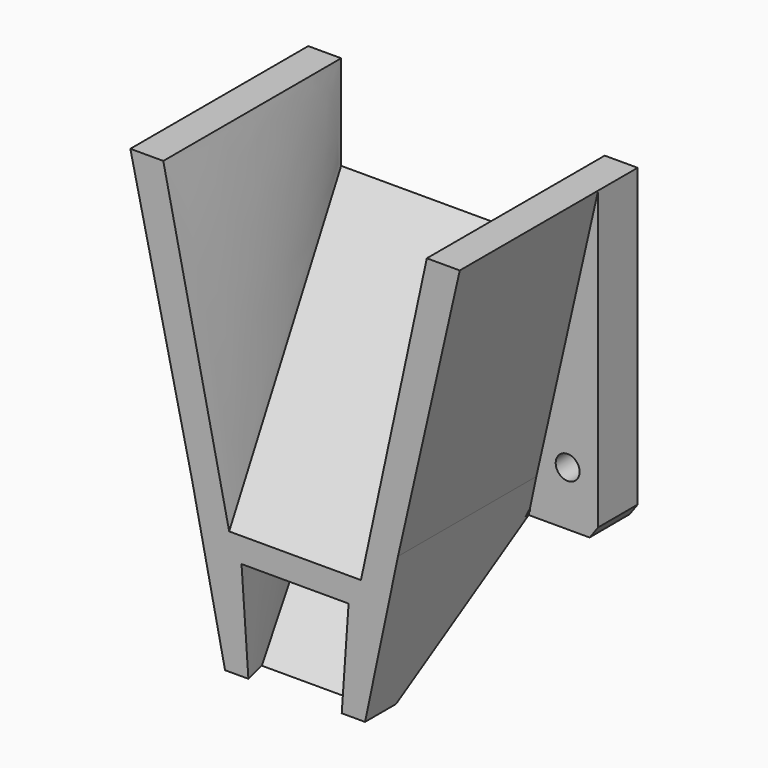
from build123d import *

# Parameters (mm, degrees)
F0_R          = 1.45
F1_DEPTH      = 27
F3_START      = 6
F3_DEPTH      = 23
F6_W          = 32
F6_H          = 11.5
F9_DEPTH      = 25
F9_DEPTH_BACK = 25
F6_W_2        = 27
F6_H_2        = 18


with BuildPart() as f1:
    # F0 (on Front) → F1 (new body)
    with BuildSketch(Plane.XZ):
        Polygon((-8.5, -26), (8.5, -26), (20, -10), (20, 26), (-20, 26), (-20, -10), align=None)
        with Locations((-16.3, -4.8)):
            Circle(F0_R, mode=Mode.SUBTRACT)
        with Locations((16.3, -4.8)):
            Circle(F0_R, mode=Mode.SUBTRACT)
    extrude(amount=F1_DEPTH)

    # F2 (on Front) → F3 (cut)
    with BuildSketch(Plane.XZ.offset(F3_START)):
        Polygon((26.5, -25), (26.499954751, 0.0001809961), (20, 26), (12.5, -7), (8.5, -26), align=None)
        Polygon((-8.5, -26), (-12.5, -7), (-20, 26), (-26.499954751, 0.0001809961), (-26.5, -25), align=None)
    extrude(amount=F3_DEPTH, mode=Mode.SUBTRACT)

    # F6 (on Front) → F7 section 0
    with BuildSketch(Plane.XZ):
        with Locations((0, 20.25)):
            Rectangle(F6_W, F6_H)
    # F5 (on offset) → F7 section 1
    with BuildSketch(Plane.XZ.offset(27)):
        Polygon((8, -11), (16, 26), (-16, 26), (-8, -11), align=None)
    loft(mode=Mode.SUBTRACT)

    # F8 (on Right) → F9 (cut, two sides)
    with BuildSketch(Plane.YZ) as f9_sk:
        Polygon((-5.9656337835, -11.392949149), (-27.1901637316, -30.3732156754), (3.7769323681, -39.4357405603), (2.9211663641, -11.3271204755), align=None)
    extrude(amount=-F9_DEPTH, mode=Mode.SUBTRACT)
    extrude(f9_sk.sketch, amount=F9_DEPTH_BACK, mode=Mode.SUBTRACT)

    # F6 (on Front) → F10 section 0
    with BuildSketch(Plane.XZ):
        with Locations((0, 3)):
            Rectangle(F6_W_2, F6_H_2)
    # F5 (on offset) → F10 section 1
    with BuildSketch(Plane.XZ.offset(27)):
        Polygon((5.5, -28.406675905), (6.5, -14), (-6.5, -14), (-5.5, -28.406675905), align=None)
    loft(mode=Mode.SUBTRACT)


solid = f1.part
